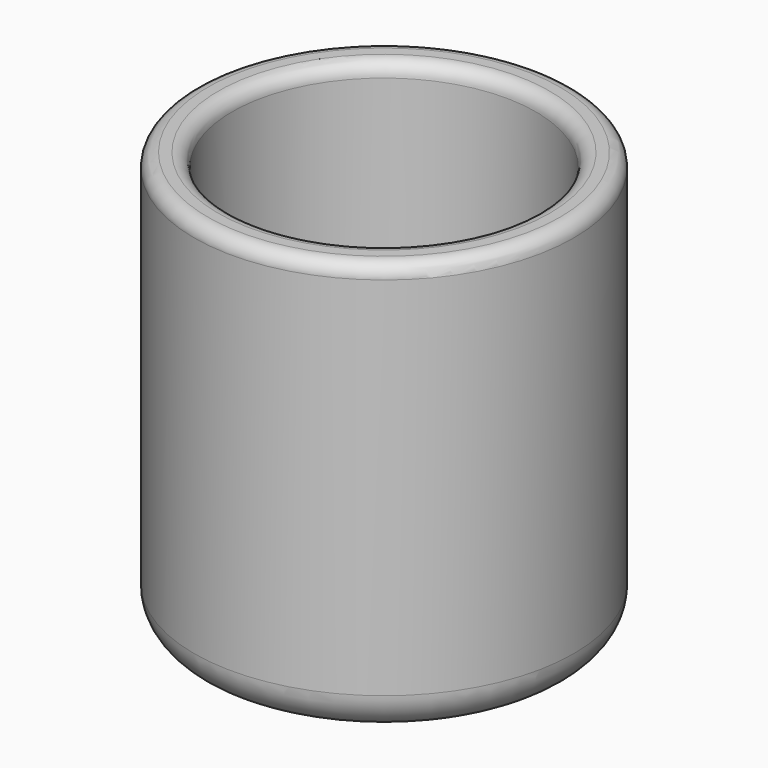
from build123d import *

# Parameters (mm, degrees)
F0_R     = 25.4
F0_R_2   = 20.32
F0_R_3   = 8.89
F0_R_4   = 6.35
F0_R_5   = 3.81
F0_R_6   = 1.27
F1_DEPTH = 5.08
F2_DEPTH = 25.4
F3_DEPTH = 50.8
F4_DEPTH = 25.4
F6_ANGLE = 180
F8_R     = 2.54
F9_DEPTH = 5.08
F10_R    = 1.8396307345
F11_R    = 5.08


with BuildPart() as f1:
    # F0 (on Top) → F1 (new body)
    with BuildSketch(Plane.XY):
        Circle(F0_R)
        Circle(F0_R_2, mode=Mode.SUBTRACT)
        Circle(F0_R_2)
        Circle(F0_R_3, mode=Mode.SUBTRACT)
        Circle(F0_R_3)
        Circle(F0_R_4, mode=Mode.SUBTRACT)
        Circle(F0_R_4)
        Circle(F0_R_5, mode=Mode.SUBTRACT)
        Circle(F0_R_5)
        Circle(F0_R_6, mode=Mode.SUBTRACT)
    extrude(amount=-F1_DEPTH)

    # F0 (on Top) → F2 (join)
    with BuildSketch(Plane.XY):
        Circle(F0_R_3)
        Circle(F0_R_4, mode=Mode.SUBTRACT)
    extrude(amount=F2_DEPTH)

    # F0 (on Top) → F3 (join)
    with BuildSketch(Plane.XY):
        Circle(F0_R)
        Circle(F0_R_2, mode=Mode.SUBTRACT)
    extrude(amount=F3_DEPTH)

    # F0 (on Top) → F4 (join)
    with BuildSketch(Plane.XY):
        Circle(F0_R_5)
        Circle(F0_R_6, mode=Mode.SUBTRACT)
    extrude(amount=F4_DEPTH)

    # F8 (on offset) → F9 (cut)
    with BuildSketch(Plane.XZ.offset(8.89)):
        with Locations((0, 2.54)):
            Circle(F8_R)
    extrude(amount=-F9_DEPTH, mode=Mode.SUBTRACT)

    # F10
    f10_edges = [f1.edges().sort_by_distance(p)[0] for p in [
        (-20.32, 0, 50.8),
        (-25.4, 0, 50.8),
    ]]
    fillet(f10_edges, radius=F10_R)

    # F11
    f11_edges = [f1.edges().sort_by_distance(p)[0] for p in [
        (-25.4, 0, -5.08),
        (-20.32, 0, 0),
    ]]
    fillet(f11_edges, radius=F11_R)


with BuildPart() as f6:
    # F5 (on face) → F6 (revolve)
    with BuildSketch(Plane.XY.offset(25.4)):
        with BuildLine():
            Line((-8.89, 0), (-6.35, 0))
            ThreePointArc((-6.35, 0), (0, 6.35), (6.35, 0))
            Line((6.35, 0), (8.89, 0))
            ThreePointArc((8.89, 0), (0, 8.89), (-8.89, 0))
        make_face()
    revolve(axis=Axis((0, 0, 25.4), (1, 0, 0)), revolution_arc=F6_ANGLE)


solid = Compound([f1.part, f6.part])
